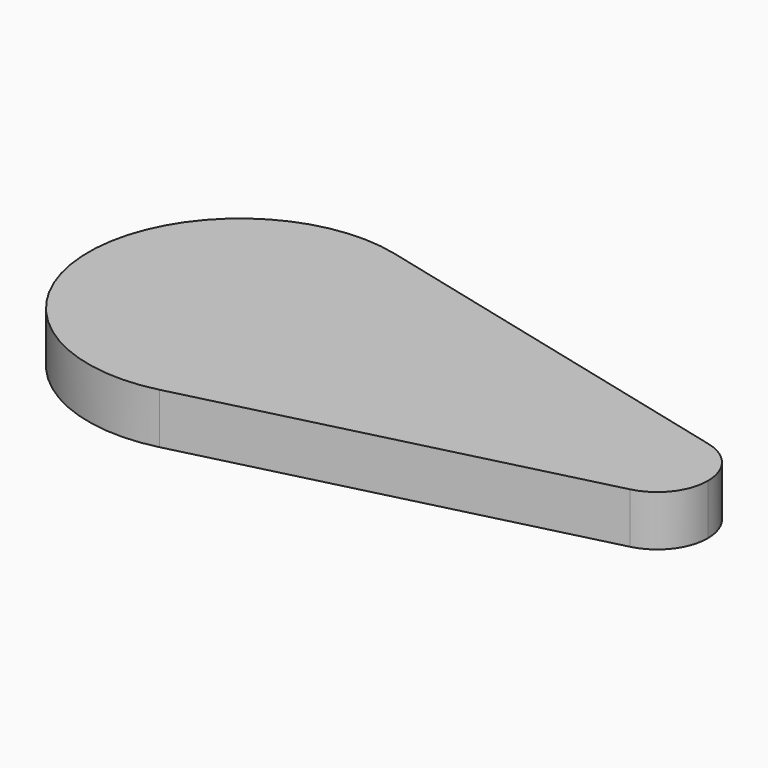
from build123d import *

# Parameters (mm, degrees)
F1_DEPTH = 10


with BuildPart() as f1:
    # F0 (on Top) → F1 (new body)
    with BuildSketch(Plane.XY):
        with BuildLine():
            ThreePointArc((37.919153, 0), (35.801207, 6.154122), (30.344509, 9.701425))
            ThreePointArc((30.344509, 9.701425), (17.919153, 0), (30.344509, -9.701425))
            ThreePointArc((30.344509, -9.701425), (35.801207, -6.154122), (37.919153, 0))
        make_face()
        with BuildLine():
            ThreePointArc((-47.266891, 29.104275), (-30.896797, 18.462366), (-24.54296, 0))
            ThreePointArc((-24.54296, 0), (-30.896797, -18.462366), (-47.266891, -29.104275))
            Line((-47.266891, -29.104275), (30.344509, -9.701425))
            ThreePointArc((30.344509, -9.701425), (17.919153, 0), (30.344509, 9.701425))
            Line((30.344509, 9.701425), (-47.266891, 29.104275))
        make_face()
        with BuildLine():
            ThreePointArc((-47.266891, -29.104275), (-30.896797, -18.462366), (-24.54296, 0))
            ThreePointArc((-24.54296, 0), (-30.896797, 18.462366), (-47.266891, 29.104275))
            ThreePointArc((-47.266891, 29.104275), (-84.54296, 0), (-47.266891, -29.104275))
        make_face()
    extrude(amount=F1_DEPTH)


solid = f1.part
